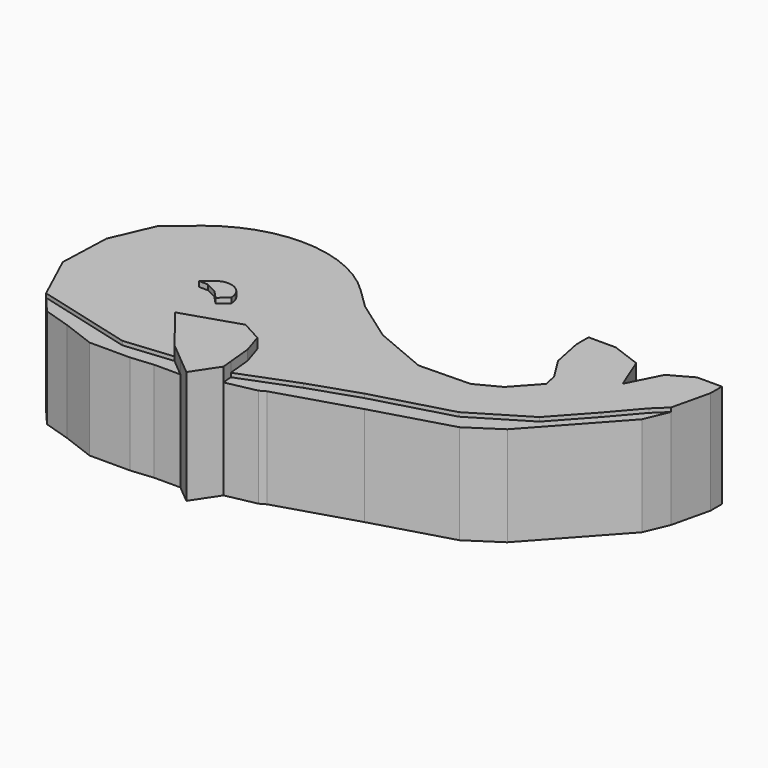
from build123d import *

# Parameters (mm, degrees)
F1_DEPTH = 28.5
F2_DEPTH = 25
F3_DEPTH = 25
F4_DEPTH = 26
F5_DEPTH = 27.3


with BuildPart() as f1:
    # F0 (on Top) → F1 (new body)
    with BuildSketch(Plane.XY):
        Polygon((-29.307868, 0), (-20.729955, -10.960666), (-8.577912, -9.769289), (-7.784336, -9.462098), (-8.376737, -3.419617), (-10.007564, 1.667927), (-15.249622, 4.527232), align=None)
        Polygon((-8.577912, -9.769289), (-20.729955, -10.960666), (-16.250395, -14.699083), (-11.770834, -18.437501), (-7.529469, -12.061744), (-7.784336, -9.462098), align=None)
    extrude(amount=F1_DEPTH)

    # F0 (on Top) → F2 (join)
    with BuildSketch(Plane.XY):
        Polygon((-32.881998, -12.152042), (-57.186086, -5.718608), (-53.437501, -10.104167), (-46.770833, -12.1875), (-38.645834, -15.249623), (-28.437063, -15.249623), (-22.821563, -14.699083), (-16.250395, -14.699083), (-20.729955, -10.960666), align=None)
    extrude(amount=F2_DEPTH)

    # F0 (on Top) → F3 (join)
    with BuildSketch(Plane.XY):
        Polygon((6.19516, -4.050681), (-7.784336, -9.462098), (-7.529469, -12.061744), (0, -10.520834), (1.51446, -9.679468), (21.145836, -3.645833), (40.520836, 1.979167), (48.395412, 7.15981), (66.369534, 26.979169), (68.892609, 32.971472), (65.744534, 29.97532), (59.47917, 22.684125), (51.297057, 13.662031), (37.635021, 5.413258), (18.229166, 0), align=None)
    extrude(amount=F3_DEPTH)

    # F0 (on Top) → F4 (join)
    with BuildSketch(Plane.XY):
        with BuildLine():
            Line((-4.828904, 29.004751), (-9.769289, 33.835098))
            ThreePointArc((-9.769289, 33.835098), (-29.975189, 42.690738), (-50.990924, 35.97958))
            Line((-50.990924, 35.97958), (-57.900909, 30.260969))
            Line((-57.900909, 30.260969), (-62.428143, 19.776853))
            Line((-62.428143, 19.776853), (-62.904693, 6.671709))
            Line((-62.904693, 6.671709), (-57.186086, -5.718608))
            Line((-57.186086, -5.718608), (-32.881998, -12.152042))
            Line((-32.881998, -12.152042), (-20.729955, -10.960666))
            Line((-20.729955, -10.960666), (-29.307868, 0))
            Line((-29.307868, 0), (-15.249622, 4.527232))
            Line((-15.249622, 4.527232), (-10.007564, 1.667927))
            Line((-10.007564, 1.667927), (-8.376737, -3.419617))
            Line((-8.376737, -3.419617), (-7.784336, -9.462098))
            Line((-7.784336, -9.462098), (6.19516, -4.050681))
            Line((6.19516, -4.050681), (18.229166, 0))
            Line((18.229166, 0), (37.635021, 5.413258))
            Line((37.635021, 5.413258), (51.297057, 13.662031))
            Line((51.297057, 13.662031), (59.47917, 22.684125))
            Line((59.47917, 22.684125), (65.744534, 29.97532))
            Line((65.744534, 29.97532), (68.892609, 32.971472))
            Line((68.892609, 32.971472), (71.14584, 42.604171))
            Line((71.14584, 42.604171), (71.14584, 46.145838))
            Line((71.14584, 46.145838), (64.895838, 46.145838))
            Line((64.895838, 46.145838), (59.270833, 43.020837))
            Line((59.270833, 43.020837), (55.186109, 34.90815))
            Line((55.186109, 34.90815), (51.770836, 43.4375))
            Line((51.770836, 43.4375), (44.479169, 46.145838))
            Line((44.479169, 46.145838), (37.635021, 46.145838))
            Line((37.635021, 46.145838), (37.635021, 42.274959))
            Line((37.635021, 42.274959), (39.190768, 34.62882))
            Line((39.190768, 34.62882), (42.812504, 28.854169))
            Line((42.812504, 28.854169), (43.496898, 25.49053))
            Line((43.496898, 25.49053), (37.8928, 19.333061))
            Line((37.8928, 19.333061), (31.963997, 16.239772))
            Line((31.963997, 16.239772), (19.062029, 15.964448))
            Line((19.062029, 15.964448), (5.480333, 21.683058))
            Line((5.480333, 21.683058), (-4.828904, 29.004751))
        make_face()
        with BuildLine():
            ThreePointArc((-33.213809, 16.979167), (-28.598407, 17.594186), (-26.130475, 13.645833))
            Line((-26.130475, 13.645833), (-28.42214, 11.562501))
            Line((-28.42214, 11.562501), (-30.428787, 13.704629))
            Line((-30.428787, 13.704629), (-33.213809, 15.102518))
            Line((-33.213809, 15.102518), (-35.420312, 15.102518))
            Line((-35.420312, 15.102518), (-33.213809, 16.979167))
        make_face(mode=Mode.SUBTRACT)
    extrude(amount=F4_DEPTH)

    # F0 (on Top) → F5 (join)
    with BuildSketch(Plane.XY):
        with BuildLine():
            Line((-28.42214, 11.562501), (-26.130475, 13.645833))
            ThreePointArc((-26.130475, 13.645833), (-28.598407, 17.594186), (-33.213809, 16.979167))
            Line((-33.213809, 16.979167), (-35.420312, 15.102518))
            Line((-35.420312, 15.102518), (-33.213809, 15.102518))
            Line((-33.213809, 15.102518), (-30.428787, 13.704629))
            Line((-30.428787, 13.704629), (-28.42214, 11.562501))
        make_face()
    extrude(amount=F5_DEPTH)


solid = f1.part
